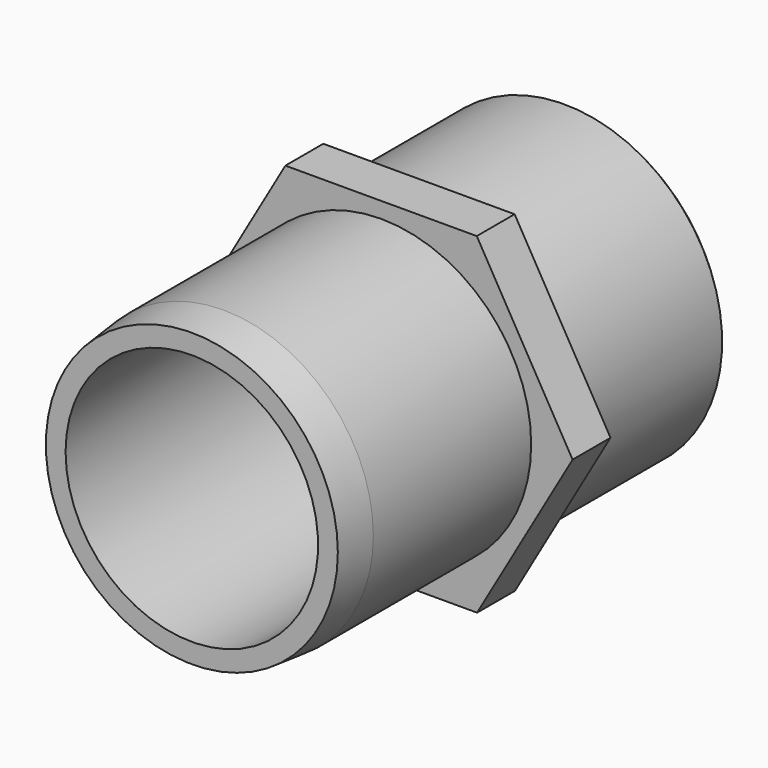
from build123d import *

# Parameters (mm, degrees)
F1_DEPTH = 6
F2_R     = 19
F3_DEPTH = 30
F4_R     = 20
F5_DEPTH = 24
F6_R     = 16
F7_DEPTH = 60.001
F8_SIZE  = 1
F9_SIZE2 = 5
F9_SIZE  = 0.5


with BuildPart() as f1:
    # F0 (on Front) → F1 (new body)
    with BuildSketch(Plane.XZ):
        Polygon((24.248698, 0.025049), (12.102656, 21.012513), (-12.146042, 20.987464), (-24.248698, -0.025049), (-12.102656, -21.012513), (12.146042, -20.987464), align=None)
    extrude(amount=F1_DEPTH)

    # F2 (on face) → F3 (join)
    with BuildSketch(Plane.XZ.offset(6)):
        Circle(F2_R)
    extrude(amount=F3_DEPTH)

    # F4 (on face) → F5 (join)
    with BuildSketch(Plane(origin=(0, 0, 0), x_dir=(-1, 0, 0), z_dir=(0, 1, 0))):
        Circle(F4_R)
    extrude(amount=F5_DEPTH)

    # F6 (on face) → F7 (cut, through all)
    with BuildSketch(Plane(origin=(0, 24, 0), x_dir=(-1, 0, 0), z_dir=(0, 1, 0))):
        Circle(F6_R)
    extrude(amount=-F7_DEPTH, mode=Mode.SUBTRACT)

    # F8
    f8_edges = [f1.edges().sort_by_distance(p)[0] for p in [
        (20, 24, 0),
    ]]
    chamfer(f8_edges, length=F8_SIZE)

    # F9
    f9_edges = [f1.edges().sort_by_distance(p)[0] for p in [
        (-19, -36, 0),
    ]]
    chamfer(f9_edges, length=F9_SIZE, length2=F9_SIZE2)


solid = f1.part
